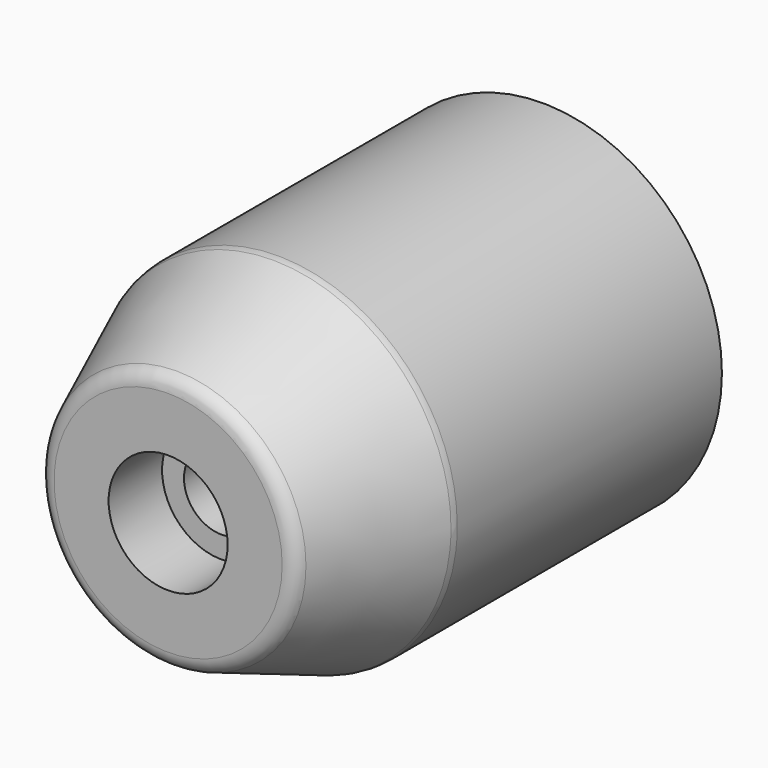
from build123d import *

# Parameters (mm, degrees)
F0_R           = 21.5
F1_DEPTH       = 40
F3_R           = 15
F1_FACE_R      = 21.5
F6_D           = 9
F6_CBORE_D     = 14.25
F6_CBORE_DEPTH = 8
F7_R           = 2


with BuildPart() as f1:
    # F0 (on Front) → F1 (new body)
    with BuildSketch(Plane.XZ):
        Circle(F0_R)
    extrude(amount=F1_DEPTH)

    # F3 (on offset) → F4 section 0
    with BuildSketch(Plane.XZ.offset(56)):
        Circle(F3_R)
    # F1_face (on face) → F4 section 1
    with BuildSketch(Plane.XZ.offset(40)):
        Circle(F1_FACE_R)
    loft()

    # F6 (through all)
    with Locations(Plane.XZ.offset(56)):
        with Locations((0, 0)):
            CounterBoreHole(F6_D / 2, F6_CBORE_D / 2, F6_CBORE_DEPTH)

    # F7
    f7_edges = [f1.edges().sort_by_distance(p)[0] for p in [
        (-21.5, -40, 0),
        (-15, -56, 0),
    ]]
    fillet(f7_edges, radius=F7_R)


solid = f1.part
